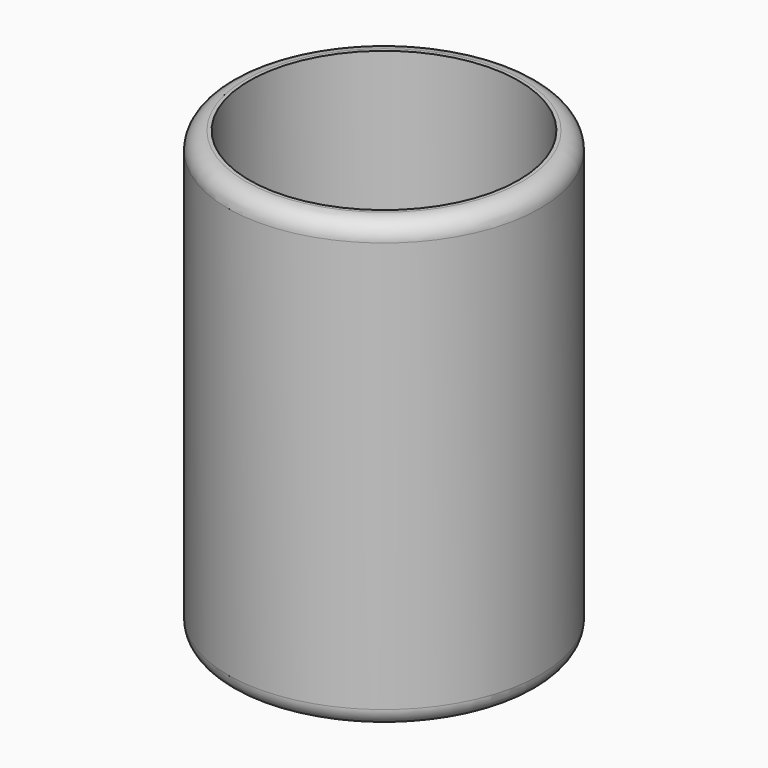
from build123d import *

# Parameters (mm, degrees)
F0_R     = 44.425612
F1_DEPTH = 127
F2_R     = 38.311037
F3_DEPTH = 93.30304
F4_R     = 5.08
F5_R     = 5.08


with BuildPart() as f1:
    # F0 (on Top) → F1 (new body)
    with BuildSketch(Plane.XY):
        Circle(F0_R)
    extrude(amount=F1_DEPTH)

    # F2 (on face) → F3 (cut)
    with BuildSketch(Plane.XY.offset(127)):
        Circle(F2_R)
    extrude(amount=-F3_DEPTH, mode=Mode.SUBTRACT)

    # F4
    f4_edges = [f1.edges().sort_by_distance(p)[0] for p in [
        (-44.425612, 0, 127),
    ]]
    fillet(f4_edges, radius=F4_R)

    # F5
    f5_edges = [f1.edges().sort_by_distance(p)[0] for p in [
        (-44.425612, 0, 0),
    ]]
    fillet(f5_edges, radius=F5_R)


solid = f1.part
